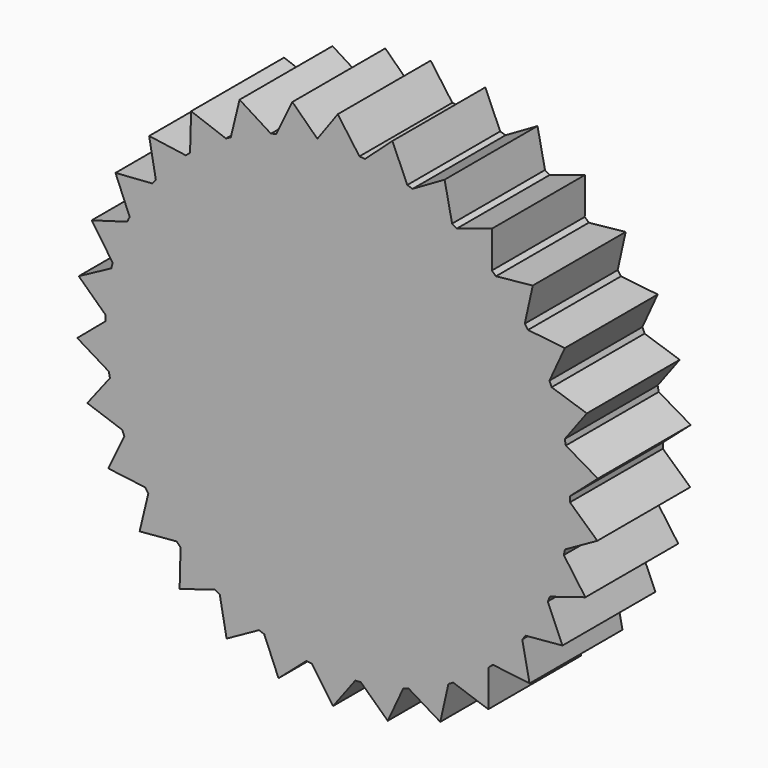
from build123d import *

# Parameters (mm, degrees)
F1_DEPTH = 12.7


with BuildPart() as f1:
    # F0 (on Front) → F1 (new body)
    with BuildSketch(Plane.XZ):
        with BuildLine():
            ThreePointArc((25.3944439241, -0.5312417394), (25.398610943, -0.2656353966), (25.4, 0))
            ThreePointArc((25.4, 0), (25.3999740039, 0.0363400731), (25.3998960157, 0.0726800719))
            ThreePointArc((25.3998960157, 0.0726800719), (25.2823297123, 2.4420901537), (24.9442179938, 4.7901971439))
            ThreePointArc((24.9442179938, 4.7901971439), (24.8855058459, 5.0864131562), (24.8232762213, 5.3819102222))
            ThreePointArc((24.8232762213, 5.3819102222), (24.2128911527, 7.6743665555), (23.3912897052, 9.8998770662))
            ThreePointArc((23.3912897052, 9.8998770662), (23.2719398097, 10.1772696484), (23.1493005092, 10.4532237101))
            ThreePointArc((23.1493005092, 10.4532237101), (22.0730798045, 12.5673842921), (20.804308943, 14.5719157767))
            ThreePointArc((20.804308943, 14.5719157767), (20.6295973686, 14.8182223093), (20.4519698749, 15.0624343396))
            ThreePointArc((20.4519698749, 15.0624343396), (18.9574897343, 16.9048390402), (17.2976376722, 18.5997777127))
            ThreePointArc((17.2976376722, 18.5997777127), (17.0752878467, 18.8041097889), (16.8505244908, 19.0057839718))
            ThreePointArc((16.8505244908, 19.0057839718), (15.0038509972, 20.4949861004), (13.0262943696, 21.8054042613))
            ThreePointArc((13.0262943696, 21.8054042613), (12.7661356522, 21.9587290277), (12.5041724875, 22.1089500068))
            ThreePointArc((12.5041724875, 22.1089500068), (10.386941041, 23.1791168039), (8.1791011637, 24.0470851488))
            ThreePointArc((8.1791011637, 24.0470851488), (7.892634321, 24.1426246186), (7.6050518829, 24.2347516154))
            ThreePointArc((7.6050518829, 24.2347516154), (5.3108583666, 24.8385745044), (2.9703366251, 25.2257229893))
            ThreePointArc((2.9703366251, 25.2257229893), (2.6702254201, 25.2592536748), (2.3697367884, 25.2892140557))
            ThreePointArc((2.3697367884, 25.2892140557), (0.1566189899, 25.3995171311), (-2.0576907736, 25.3165145445))
            ThreePointArc((-2.0576907736, 25.3165145445), (-2.2137558658, 25.3033453315), (-2.3697367884, 25.2892140557))
            ThreePointArc((-2.3697367884, 25.2892140557), (-4.564819459, 24.9864447913), (-6.7251610972, 24.4935135948))
            ThreePointArc((-6.7251610972, 24.4935135948), (-7.0158820659, 24.411829076), (-7.3056113649, 24.3266940332))
            ThreePointArc((-7.3056113649, 24.3266940332), (-9.5433476931, 23.5389998685), (-11.6978345106, 22.5459678826))
            ThreePointArc((-11.6978345106, 22.5459678826), (-11.9650502401, 22.4053023356), (-12.2305747529, 22.2614698799))
            ThreePointArc((-12.2305747529, 22.2614698799), (-14.2541514602, 21.0233005532), (-16.1533848895, 19.601738612))
            ThreePointArc((-16.1533848895, 19.601738612), (-16.3852826458, 19.4083104009), (-16.6148644014, 19.212138895))
            ThreePointArc((-16.6148644014, 19.212138895), (-18.3348257747, 17.5782298259), (-19.8948469127, 15.790980537))
            ThreePointArc((-19.8948469127, 15.790980537), (-20.0811752538, 15.5533404909), (-20.2646651932, 15.3135020361))
            ThreePointArc((-20.2646651932, 15.3135020361), (-21.604977361, 13.3560830047), (-22.7568227715, 11.2821548184))
            ThreePointArc((-22.7568227715, 11.2821548184), (-22.8893447304, 11.010808227), (-23.0186313629, 10.7379052976))
            ThreePointArc((-23.0186313629, 10.7379052976), (-23.9200435047, 8.5435074024), (-24.6127938663, 6.274581906))
            ThreePointArc((-24.6127938663, 6.274581906), (-24.6856510803, 5.9815241155), (-24.7550190663, 5.687620858))
            ThreePointArc((-24.7550190663, 5.687620858), (-25.1776826971, 3.3532512586), (-25.3807137804, 0.9896302333))
            ThreePointArc((-25.3807137804, 0.9896302333), (-25.3906854701, 0.6878163708), (-25.3970682778, 0.3859052878))
            ThreePointArc((-25.3970682778, 0.3859052878), (-25.3222988198, -1.9852411648), (-25.026635284, -4.3390697578))
            ThreePointArc((-25.026635284, -4.3390697578), (-24.9732806336, -4.6362974879), (-24.9163960999, -4.932869894))
            ThreePointArc((-24.9163960999, -4.932869894), (-24.3474988664, -7.2359725641), (-23.5662110303, -9.4759536553))
            ThreePointArc((-23.5662110303, -9.4759536553), (-23.4518886745, -9.7554557863), (-23.3342514788, -10.0335790187))
            ThreePointArc((-23.3342514788, -10.0335790187), (-22.2963755574, -12.166825264), (-21.0640016027, -14.1939366097))
            ThreePointArc((-21.0640016027, -14.1939366097), (-20.8937653594, -14.4433572658), (-20.7205758576, -14.6907364053))
            ThreePointArc((-20.7205758576, -14.6907364053), (-19.2596023508, -16.5598223809), (-17.6306215028, -18.2844520132))
            ThreePointArc((-17.6306215028, -18.2844520132), (-17.4119969598, -18.4927651224), (-17.1909112938, -18.6984643457))
            ThreePointArc((-17.1909112938, -18.6984643457), (-15.3714250659, -20.2207638689), (-13.4178492442, -21.566671548))
            ThreePointArc((-13.4178492442, -21.566671548), (-13.1605010782, -21.7246682684), (-12.9012927227, -21.8795942852))
            ThreePointArc((-12.9012927227, -21.8795942852), (-10.8037273136, -22.987811469), (-8.6119177209, -23.8954990148))
            ThreePointArc((-8.6119177209, -23.8954990148), (-8.3272224532, -23.9961948278), (-8.0413501625, -24.0934988651))
            ThreePointArc((-8.0413501625, -24.0934988651), (-5.7584320841, -24.7386430496), (-3.4252814594, -25.1679845622))
            ThreePointArc((-3.4252814594, -25.1679845622), (-3.1258245374, -25.206928035), (-2.8259257913, -25.2423085993))
            ThreePointArc((-2.8259257913, -25.2423085993), (-0.458575391, -25.3958600683), (1.9127753013, -25.3278757626))
            ThreePointArc((1.9127753013, -25.3278757626), (2.2137558658, -25.3033453315), (2.5144235238, -25.2752383637))
            ThreePointArc((2.5144235238, -25.2752383637), (4.8615534215, -24.9304091088), (7.1662745171, -24.3681043486))
            ThreePointArc((7.1662745171, -24.3681043486), (7.4554733568, -24.2811844239), (7.7436183923, -24.1908324411))
            ThreePointArc((7.7436183923, -24.1908324411), (9.9667688451, -23.3628662366), (12.1029761563, -22.3310986779))
            ThreePointArc((12.1029761563, -22.3310986779), (12.3676087357, -22.1856317052), (12.6304931982, -22.0370288735))
            ThreePointArc((12.6304931982, -22.0370288735), (14.63138599, -20.7625273994), (16.5046447729, -19.306908114))
            ThreePointArc((16.5046447729, -19.306908114), (16.7330125505, -19.1093247129), (16.9590151771, -18.9090402777))
            ThreePointArc((16.9590151771, -18.9090402777), (18.6491973766, -17.2443450791), (20.1766969823, -15.4292222385))
            ThreePointArc((20.1766969823, -15.4292222385), (20.358704565, -15.1882569255), (20.5378345181, -14.9451448071))
            ThreePointArc((20.5378345181, -14.9451448071), (21.842588694, -12.9638466185), (22.9568033568, -10.8694608715))
            ThreePointArc((22.9568033568, -10.8694608715), (23.0844047841, -10.5957659356), (23.208743314, -10.3205733263))
            ThreePointArc((23.208743314, -10.3205733263), (24.070390548, -8.1102588655), (24.7220644791, -5.8291961615))
            ThreePointArc((24.7220644791, -5.8291961615), (24.789618909, -5.5348707613), (24.8536694156, -5.239763027))
            ThreePointArc((24.8536694156, -5.239763027), (25.2341190995, -2.8981430728), (25.3944439241, -0.5312417394))
        make_face()
        with BuildLine():
            ThreePointArc((24.9442179938, 4.7901971439), (25.2823297123, 2.4420901537), (25.3998960157, 0.0726800719))
            Line((25.3998960157, 0.0726800719), (28.4426209263, 2.7473514229))
            Line((28.4426209263, 2.7473514229), (24.9442179938, 4.7901971439))
        make_face()
        with BuildLine():
            Line((28.388383987, -3.2604109569), (25.3944439241, -0.5312417394))
            ThreePointArc((25.3944439241, -0.5312417394), (25.2341190995, -2.8981430728), (24.8536694156, -5.239763027))
            Line((24.8536694156, -5.239763027), (28.388383987, -3.2604109569))
        make_face()
        with BuildLine():
            ThreePointArc((23.3912897052, 9.8998770662), (24.2128911527, 7.6743665555), (24.8232762213, 5.3819102222))
            Line((24.8232762213, 5.3819102222), (27.2395025468, 8.6336623749))
            Line((27.2395025468, 8.6336623749), (23.3912897052, 9.8998770662))
        make_face()
        with BuildLine():
            Line((27.0791893665, -9.1240412236), (24.7220644791, -5.8291961615))
            ThreePointArc((24.7220644791, -5.8291961615), (24.070390548, -8.1102588655), (23.208743314, -10.3205733263))
            Line((23.208743314, -10.3205733263), (27.0791893665, -9.1240412236))
        make_face()
        with BuildLine():
            ThreePointArc((20.804308943, 14.5719157767), (22.0730798045, 12.5673842921), (23.1493005092, 10.4532237101))
            Line((23.1493005092, 10.4532237101), (24.83221478, 14.1383073286))
            Line((24.83221478, 14.1383073286), (20.804308943, 14.5719157767))
        make_face()
        with BuildLine():
            Line((24.5729122807, -14.5843274458), (22.9568033568, -10.8694608715))
            ThreePointArc((22.9568033568, -10.8694608715), (21.842588694, -12.9638466185), (20.5378345181, -14.9451448071))
            Line((20.5378345181, -14.9451448071), (24.5729122807, -14.5843274458))
        make_face()
        with BuildLine():
            ThreePointArc((17.2976376722, 18.5997777127), (18.9574897343, 16.9048390402), (20.4519698749, 15.0624343396))
            Line((20.4519698749, 15.0624343396), (21.3271759511, 19.0179439202))
            Line((21.3271759511, 19.0179439202), (17.2976376722, 18.5997777127))
        make_face()
        with BuildLine():
            Line((20.9803470487, -19.399888214), (20.1766969823, -15.4292222385))
            ThreePointArc((20.1766969823, -15.4292222385), (18.6491973766, -17.2443450791), (16.9590151771, -18.9090402777))
            Line((16.9590151771, -18.9090402777), (20.9803470487, -19.399888214))
        make_face()
        with BuildLine():
            ThreePointArc((13.0262943696, 21.8054042613), (15.0038509972, 20.4949861004), (16.8505244908, 19.0057839718))
            Line((16.8505244908, 19.0057839718), (16.8793323718, 23.0568593629))
            Line((16.8793323718, 23.0568593629), (13.0262943696, 21.8054042613))
        make_face()
        with BuildLine():
            Line((16.4603092388, -23.3578433243), (16.5046447729, -19.306908114))
            ThreePointArc((16.5046447729, -19.306908114), (14.63138599, -20.7625273994), (12.6304931982, -22.0370288735))
            Line((12.6304931982, -22.0370288735), (16.4603092388, -23.3578433243))
        make_face()
        with BuildLine():
            ThreePointArc((8.1791011637, 24.0470851488), (10.386941041, 23.1791168039), (12.5041724875, 22.1089500068))
            Line((12.5041724875, 22.1089500068), (11.6853086711, 26.0765064044))
            Line((11.6853086711, 26.0765064044), (8.1791011637, 24.0470851488))
        make_face()
        with BuildLine():
            Line((11.2126149507, -26.2832245162), (12.1029761563, -22.3310986779))
            ThreePointArc((12.1029761563, -22.3310986779), (9.9667688451, -23.3628662366), (7.7436183923, -24.1908324411))
            Line((7.7436183923, -24.1908324411), (11.2126149507, -26.2832245162))
        make_face()
        with BuildLine():
            ThreePointArc((2.9703366251, 25.2257229893), (5.3108583666, 24.8385745044), (7.6050518829, 24.2347516154))
            Line((7.6050518829, 24.2347516154), (5.9747156624, 27.9433963174))
            Line((5.9747156624, 27.9433963174), (2.9703366251, 25.2257229893))
        make_face()
        with BuildLine():
            Line((5.4692475992, -28.0467102473), (7.1662745171, -24.3681043486))
            ThreePointArc((7.1662745171, -24.3681043486), (4.8615534215, -24.9304091088), (2.5144235238, -25.2752383637))
            Line((2.5144235238, -25.2752383637), (5.4692475992, -28.0467102473))
        make_face()
        with BuildLine():
            ThreePointArc((-2.0576907736, 25.3165145445), (0.1566189899, 25.3995171311), (2.3697367884, 25.2892140557))
            Line((2.3697367884, 25.2892140557), (0, 28.575))
            Line((0, 28.575), (-2.2295280407, 25.4836221159))
            Line((-2.2295280407, 25.4836221159), (-2.0576907736, 25.3165145445))
        make_face()
        with BuildLine():
            Line((-0.5158973148, -28.5703425769), (1.9127753013, -25.3278757626))
            ThreePointArc((1.9127753013, -25.3278757626), (-0.458575391, -25.3958600683), (-2.8259257913, -25.2423085993))
            Line((-2.8259257913, -25.2423085993), (-0.5158973148, -28.5703425769))
        make_face()
        with BuildLine():
            ThreePointArc((-2.3697367884, 25.2892140557), (-2.2137558658, 25.3033453315), (-2.0576907736, 25.3165145445))
            Line((-2.0576907736, 25.3165145445), (-2.2295280407, 25.4836221159))
            Line((-2.2295280407, 25.4836221159), (-2.3697367884, 25.2892140557))
        make_face()
        with BuildLine():
            ThreePointArc((-6.7251610972, 24.4935135948), (-4.564819459, 24.9864447913), (-2.3697367884, 25.2892140557))
            Line((-2.3697367884, 25.2892140557), (-2.2295280407, 25.4836221159))
            Line((-2.2295280407, 25.4836221159), (-4.9619966768, 28.1408815423))
            Line((-4.9619966768, 28.1408815423), (-6.7251610972, 24.4935135948))
        make_face()
        with BuildLine():
            Line((-6.4782360946, -27.8309734307), (-3.4252814594, -25.1679845622))
            ThreePointArc((-3.4252814594, -25.1679845622), (-5.7584320841, -24.7386430496), (-8.0413501625, -24.0934988651))
            Line((-8.0413501625, -24.0934988651), (-6.4782360946, -27.8309734307))
        make_face()
        with BuildLine():
            ThreePointArc((-11.6978345106, 22.5459678826), (-9.5433476931, 23.5389998685), (-7.3056113649, 24.3266940332))
            Line((-7.3056113649, 24.3266940332), (-10.7362661547, 26.481374852))
            Line((-10.7362661547, 26.481374852), (-11.6978345106, 22.5459678826))
        make_face()
        with BuildLine():
            Line((-12.1541932278, -25.8612879026), (-8.6119177209, -23.8954990148))
            ThreePointArc((-8.6119177209, -23.8954990148), (-10.8037273136, -22.987811469), (-12.9012927227, -21.8795942852))
            Line((-12.9012927227, -21.8795942852), (-12.1541932278, -25.8612879026))
        make_face()
        with BuildLine():
            ThreePointArc((-16.1533848895, 19.601738612), (-14.2541514602, 21.0233005532), (-12.2305747529, 22.2614698799))
            Line((-12.2305747529, 22.2614698799), (-16.0359203927, 23.6512131223))
            Line((-16.0359203927, 23.6512131223), (-16.1533848895, 19.601738612))
        make_face()
        with BuildLine():
            Line((-17.2928531992, -22.7483593525), (-13.4178492442, -21.566671548))
            ThreePointArc((-13.4178492442, -21.566671548), (-15.3714250659, -20.2207638689), (-17.1909112938, -18.6984643457))
            Line((-17.1909112938, -18.6984643457), (-17.2928531992, -22.7483593525))
        make_face()
        with BuildLine():
            ThreePointArc((-19.8948469127, 15.790980537), (-18.3348257747, 17.5782298259), (-16.6148644014, 19.212138895))
            Line((-16.6148644014, 19.212138895), (-20.6266789965, 19.7755085541))
            Line((-20.6266789965, 19.7755085541), (-19.8948469127, 15.790980537))
        make_face()
        with BuildLine():
            Line((-21.6670526447, -18.6298001786), (-17.6306215028, -18.2844520132))
            ThreePointArc((-17.6306215028, -18.2844520132), (-19.2596023508, -16.5598223809), (-20.7205758576, -14.6907364053))
            Line((-20.7205758576, -14.6907364053), (-21.6670526447, -18.6298001786))
        make_face()
        with BuildLine():
            ThreePointArc((-22.7568227715, 11.2821548184), (-21.604977361, 13.3560830047), (-20.2646651932, 15.3135020361))
            Line((-20.2646651932, 15.3135020361), (-24.3055995312, 15.0255933803))
            Line((-24.3055995312, 15.0255933803), (-22.7568227715, 11.2821548184))
        make_face()
        with BuildLine():
            Line((-25.083422502, -13.687678422), (-21.0640016027, -14.1939366097))
            ThreePointArc((-21.0640016027, -14.1939366097), (-22.2963755574, -12.166825264), (-23.3342514788, -10.0335790187))
            Line((-23.3342514788, -10.0335790187), (-25.083422502, -13.687678422))
        make_face()
        with BuildLine():
            ThreePointArc((-24.6127938663, 6.274581906), (-23.9200435047, 8.5435074024), (-23.0186313629, 10.7379052976))
            Line((-23.0186313629, 10.7379052976), (-26.9100489427, 9.6114458277))
            Line((-26.9100489427, 9.6114458277), (-24.6127938663, 6.274581906))
        make_face()
        with BuildLine():
            Line((-27.3909362247, -8.1404691347), (-23.5662110303, -9.4759536553))
            ThreePointArc((-23.5662110303, -9.4759536553), (-24.3474988664, -7.2359725641), (-24.9163960999, -4.932869894))
            Line((-24.9163960999, -4.932869894), (-27.3909362247, -8.1404691347))
        make_face()
        with BuildLine():
            ThreePointArc((-25.3807137804, 0.9896302333), (-25.1776826971, 3.3532512586), (-24.7550190663, 5.687620858))
            Line((-24.7550190663, 5.687620858), (-28.3248930343, 3.7724076659))
            Line((-28.3248930343, 3.7724076659), (-25.3807137804, 0.9896302333))
        make_face()
        with BuildLine():
            Line((-28.4875861722, -2.2333963104), (-25.026635284, -4.3390697578))
            ThreePointArc((-25.026635284, -4.3390697578), (-25.3222988198, -1.9852411648), (-25.3970682778, 0.3859052878))
            Line((-25.3970682778, 0.3859052878), (-28.4875861722, -2.2333963104))
        make_face()
    extrude(amount=F1_DEPTH)


solid = f1.part
